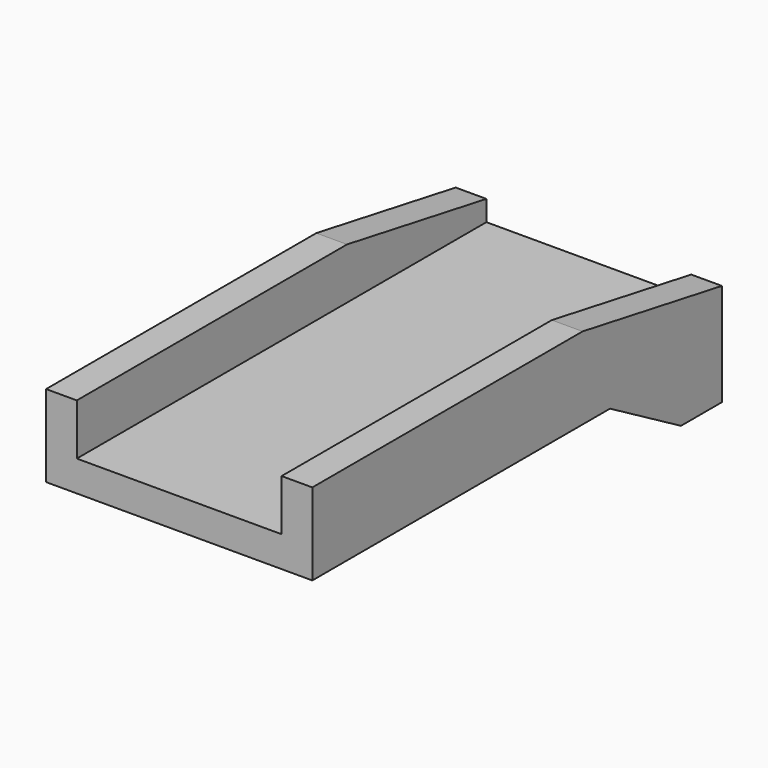
from build123d import *

# Parameters (mm, degrees)
PAD_DEPTH         = 50
POCKET_DEPTH      = 13.001
POCKET_DEPTH_BACK = -13.001


with BuildPart() as part:
    # Sketch → Pad (new body)
    with BuildSketch(Plane.XZ):
        Polygon((-13, 5), (-13, -8), (13, -8), (13, 5), (10, 5), (10, 0), (-10, 0), (-10, 5), align=None)
    extrude(amount=PAD_DEPTH)

    # Sketch001 → Pocket (cut, two sides)
    with BuildSketch(Plane.YZ) as pocket_sk:
        Polygon((-17.013845, 5), (0, 2), (0, 5), align=None)
        Polygon((-50, -3), (-50, -8), (-5, -8), (-13.660254, -3), align=None)
    extrude(amount=-POCKET_DEPTH, mode=Mode.SUBTRACT)
    extrude(pocket_sk.sketch, amount=-POCKET_DEPTH_BACK, mode=Mode.SUBTRACT)


solid = part.part
